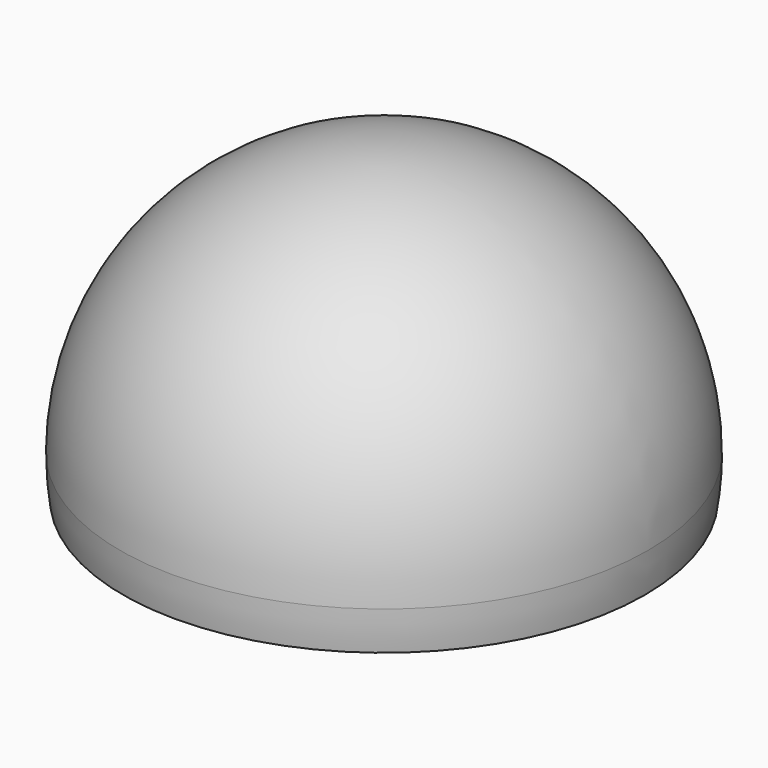
from build123d import *


with BuildPart() as f1:
    # F0 (on Front) → F1 (revolve)
    with BuildSketch(Plane.XZ):
        with BuildLine():
            ThreePointArc((32.5, 0), (32.786635, 2.4927), (32.882366, 5))
            ThreePointArc((32.882366, 5), (23.251344, 28.251344), (0, 37.882366))
            Line((0, 37.882366), (0, 36.882366))
            ThreePointArc((0, 36.882366), (22.544237, 27.544237), (31.882366, 5))
            ThreePointArc((31.882366, 5), (31.783586, 2.49223), (31.487859, 0))
            Line((31.487859, 0), (32.5, 0))
        make_face()
    revolve(axis=Axis((0, 0, 37.382366), (0, 0, -1)))


solid = f1.part
